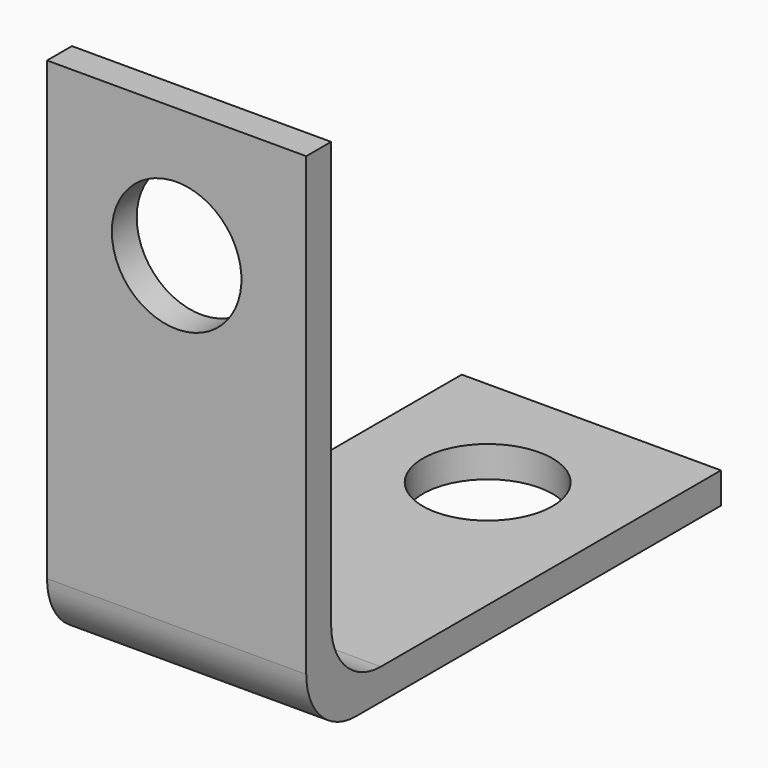
from build123d import *

# Parameters (mm, degrees)
F1_DEPTH = 12.7
F2_R     = 3.175
F3_DEPTH = 25.4
F4_R     = 3.175
F5_DEPTH = 25.4


with BuildPart() as f1:
    # F0 (on Right) → F1 (new body)
    with BuildSketch(Plane.YZ):
        with BuildLine():
            Line((0, 25.4), (0, 3.048))
            ThreePointArc((0, 3.048), (0.892739, 0.892739), (3.048, 0))
            Line((3.048, 0), (25.4, 0))
            Line((25.4, 0), (25.4, 1.524))
            Line((25.4, 1.524), (4.572, 1.524))
            ThreePointArc((4.572, 1.524), (2.416739, 2.416739), (1.524, 4.572))
            Line((1.524, 4.572), (1.524, 25.4))
            Line((1.524, 25.4), (0, 25.4))
        make_face()
    extrude(amount=F1_DEPTH)

    # F2 (on face) → F3 (cut)
    with BuildSketch(Plane(origin=(0, 1.524, 0), x_dir=(-1, 0, 0), z_dir=(0, 1, 0))):
        with Locations((-6.35, 19.05)):
            Circle(F2_R)
    extrude(amount=-F3_DEPTH, mode=Mode.SUBTRACT)

    # F4 (on face) → F5 (cut)
    with BuildSketch(Plane(origin=(0, 0, 0), x_dir=(1, 0, 0), z_dir=(0, 0, -1))):
        with Locations((6.35, -19.05)):
            Circle(F4_R)
    extrude(amount=-F5_DEPTH, mode=Mode.SUBTRACT)


solid = f1.part
